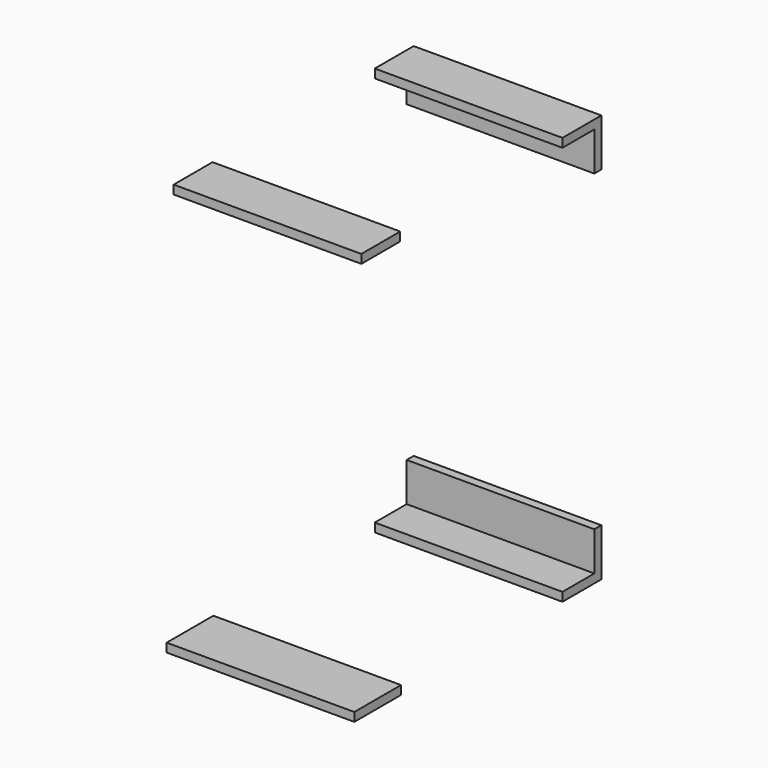
from build123d import *

# Parameters (mm, degrees)
F0_W     = 18
F0_H     = 80
F0_W_2   = 100
F0_H_2   = 18
F0_W_3   = 120
F1_DEPTH = 386


with BuildPart() as f1:
    # F0 (on Right) → F1 (new body)
    with BuildSketch(Plane.YZ):
        Polygon((317.5, 402), (317.5, 420), (217.5, 420), (217.5, 402), (299.5, 402), align=None)
        with Locations((308.5, 362)):
            Rectangle(F0_W, F0_H)
        with Locations((-249.5, 411)):
            Rectangle(F0_W_2, F0_H_2)
        with Locations((-257.5, -411)):
            Rectangle(F0_W_3, F0_H_2)
        Polygon((217.5, -420), (317.5, -420), (317.5, -402), (299.5, -402), (217.5, -402), align=None)
        with Locations((308.5, -362)):
            Rectangle(F0_W, F0_H)
    extrude(amount=F1_DEPTH)


solid = f1.part
